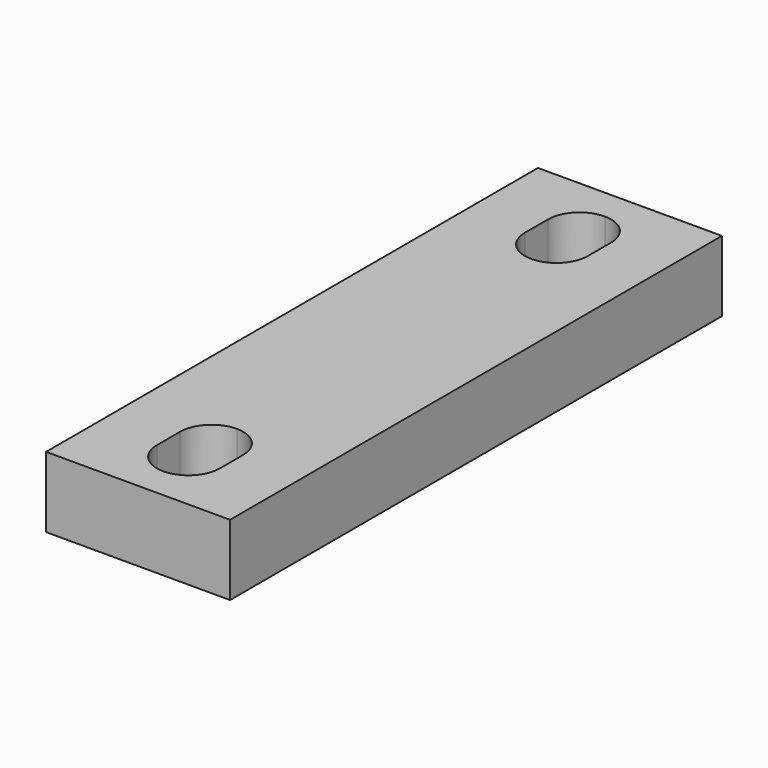
from build123d import *

# Parameters (mm, degrees)
PAD007_DEPTH               = 14.6
PAD007_MIRRORED004_2_DEPTH = 14.6


with BuildPart() as part:
    # Sketch007 → Pad007 (new body)
    with BuildSketch(Plane.XY):
        with BuildLine():
            Line((0, 0), (19, 0))
            Line((19, 0), (19, 63.5))
            Line((19, 63.5), (0, 63.5))
            Line((0, 63.5), (0, 57))
            ThreePointArc((6.5, 50.5), (4.596194, 55.096194), (0, 57))
            Line((6.5, 44.5), (6.5, 50.5))
            ThreePointArc((-0.001235, 38), (4.595757, 39.903369), (6.5, 44.5))
            Line((-0.001235, 38), (0, 0))
        make_face()
    pad007 = extrude(amount=PAD007_DEPTH)

    # Sketch007 Mirrored004 2 → Pad007 Mirrored004 2 (add)
    with BuildSketch(Plane(origin=(0, 0, 0), x_dir=(-1, 0, 0), z_dir=(0, 0, -1))):
        with BuildLine():
            Line((0, 0), (19, 0))
            Line((19, 0), (19, 63.5))
            Line((19, 63.5), (0, 63.5))
            Line((0, 63.5), (0, 57))
            ThreePointArc((6.5, 50.5), (4.596194, 55.096194), (0, 57))
            Line((6.5, 44.5), (6.5, 50.5))
            ThreePointArc((-0.001235, 38), (4.595757, 39.903369), (6.5, 44.5))
            Line((-0.001235, 38), (0, 0))
        make_face()
    pad007_mirrored004_2 = extrude(amount=-PAD007_MIRRORED004_2_DEPTH)

    # Mirrored005: Pad007, Pad007 Mirrored004 2 across Sketch007 H_Axis
    add(pad007.mirror(Plane.ZX))
    add(pad007_mirrored004_2.mirror(Plane.ZX))


solid = part.part
